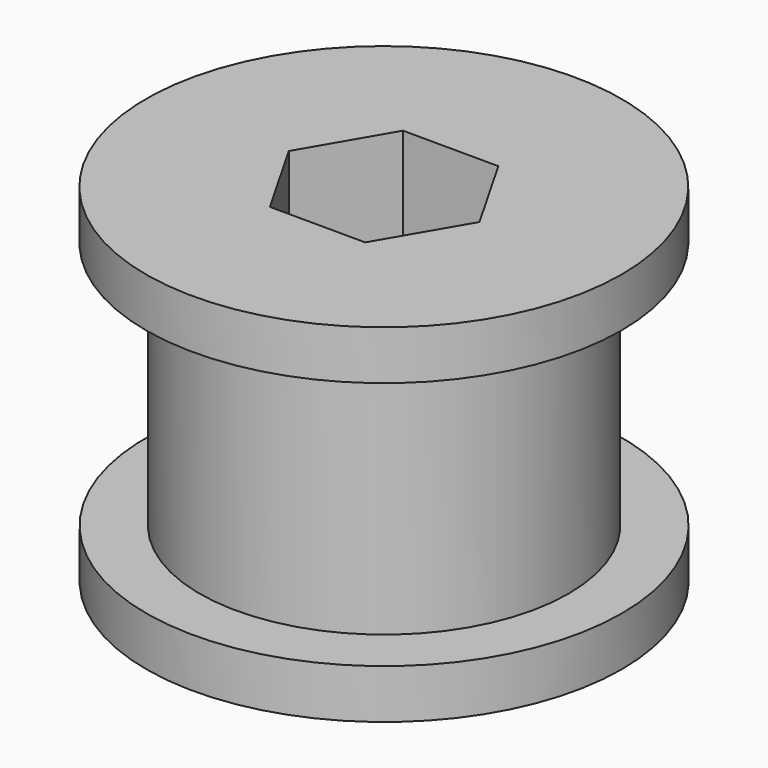
from build123d import *

# Parameters (mm, degrees)
F0_R     = 14.2875
F1_DEPTH = 19.304
F2_R     = 18.415
F3_DEPTH = 3.81
F4_R     = 18.415
F5_DEPTH = 3.81


with BuildPart() as f1:
    # F0 (on Top) → F1 (new body)
    with BuildSketch(Plane.XY):
        Circle(F0_R)
        Polygon((-3.678436, 6.427525), (3.727182, 6.399382), (7.405618, -0.028143), (3.678436, -6.427525), (-3.727182, -6.399382), (-7.405618, 0.028143), align=None, mode=Mode.SUBTRACT)
    extrude(amount=F1_DEPTH)

    # F2 (on face) → F3 (join)
    with BuildSketch(Plane.XY.offset(19.304)):
        with Locations((0, -0.028143)):
            Circle(F2_R)
        Polygon((-3.678436, 6.427525), (3.727182, 6.399382), (7.405618, -0.028143), (3.678436, -6.427525), (-3.727182, -6.399382), (-7.405618, 0.028143), align=None, mode=Mode.SUBTRACT)
    extrude(amount=F3_DEPTH)

    # F4 (on face) → F5 (join)
    with BuildSketch(Plane(origin=(0, 0, 0), x_dir=(1, 0, 0), z_dir=(0, 0, -1))):
        Circle(F4_R)
        Polygon((3.678436, 6.427525), (7.405618, 0.028143), (3.727182, -6.399382), (-3.678436, -6.427525), (-7.405618, -0.028143), (-3.727182, 6.399382), align=None, mode=Mode.SUBTRACT)
    extrude(amount=F5_DEPTH)


solid = f1.part
